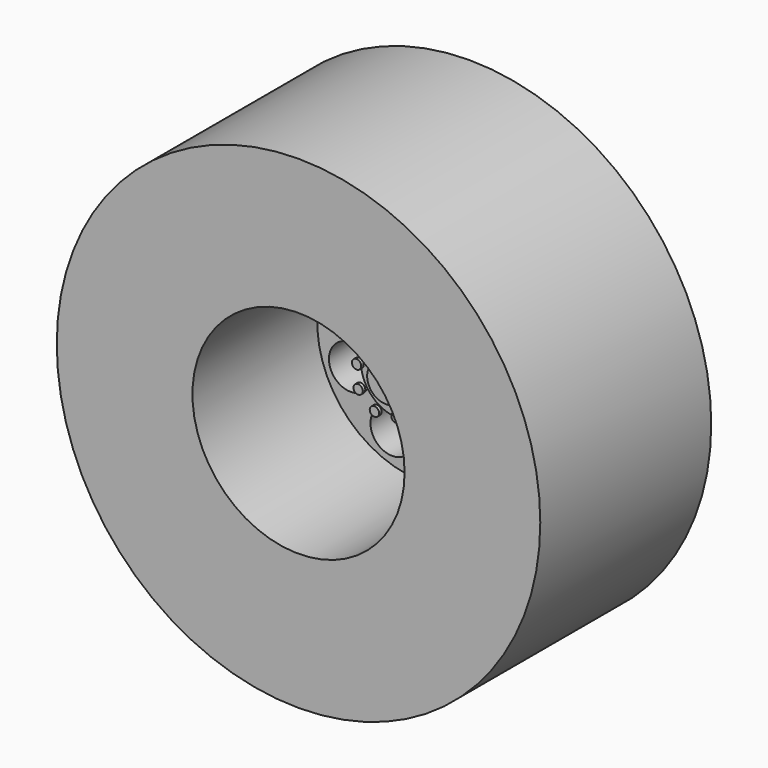
from build123d import *

# Parameters (mm, degrees)
F0_R      = 19.685
F1_DEPTH  = 17.399
F2_R      = 7.62
F3_DEPTH  = 13.208
F4_DEPTH  = 16.51
F5_R      = 8.636
F6_DEPTH  = 12.7
F7_R      = 3.048
F8_DEPTH  = 2.54
F9_R      = 1.524
F10_DEPTH = 1.27
F12_DEPTH = 0.254
F13_R     = 1.778
F14_DEPTH = 25.4
F15_R     = 18.923
F15_R_2   = 10.033
F16_DEPTH = 15.494
F17_R     = 3
F18_DEPTH = 9.398
F19_R     = 1.905
F20_DEPTH = 8.636


with BuildPart() as f1:
    # F0 (on Front) → F1 (new body)
    with BuildSketch(Plane.XZ):
        Circle(F0_R)
    extrude(amount=-F1_DEPTH)

    # F2 (on Front) → F3 (cut)
    with BuildSketch(Plane.XZ):
        Circle(F2_R)
    extrude(amount=-F3_DEPTH, mode=Mode.SUBTRACT)

    # F0 (on Front) → F4 (join)
    with BuildSketch(Plane.XZ):
        Circle(F0_R)
    extrude(amount=-F4_DEPTH)

    # F5 (on face) → F6 (cut)
    with BuildSketch(Plane.XZ):
        Circle(F5_R)
    extrude(amount=-F6_DEPTH, mode=Mode.SUBTRACT)

    # F7 (on face) → F8 (join)
    with BuildSketch(Plane.XZ.offset(-12.7)):
        Circle(F7_R)
    extrude(amount=F8_DEPTH)

    # F9 (on face) → F10 (join)
    with BuildSketch(Plane.XZ.offset(-10.16)):
        Circle(F9_R)
    extrude(amount=F10_DEPTH)

    # F13 (on face) → F14 (cut)
    with BuildSketch(Plane.XZ.offset(-12.7)):
        with Locations((-2.3355014042, 5.9049075514)):
            Circle(F13_R)
        with Locations((-5.8268490523, 2.5239512915)):
            Circle(F13_R)
        with Locations((-5.9049075514, -2.3355014042)):
            Circle(F13_R)
        with Locations((-2.5239512915, -5.8268490523)):
            Circle(F13_R)
        with Locations((2.3355014042, -5.9049075514)):
            Circle(F13_R)
        with Locations((5.8268490523, -2.5239512915)):
            Circle(F13_R)
        with Locations((5.9049075514, 2.3355014042)):
            Circle(F13_R)
        with Locations((2.5239512915, 5.8268490523)):
            Circle(F13_R)
    extrude(amount=-F14_DEPTH, mode=Mode.SUBTRACT)

    # F15 (on face) → F16 (cut)
    with BuildSketch(Plane(origin=(0, 17.399, 0), x_dir=(-1, 0, 0), z_dir=(0, 1, 0))):
        Circle(F15_R)
        Circle(F15_R_2, mode=Mode.SUBTRACT)
    extrude(amount=-F16_DEPTH, mode=Mode.SUBTRACT)

    # F17 (on face) → F18 (join)
    with BuildSketch(Plane(origin=(0, 17.399, 0), x_dir=(-1, 0, 0), z_dir=(0, 1, 0))):
        Circle(F17_R)
    extrude(amount=F18_DEPTH)

    # F19 (on face) → F20 (cut)
    with BuildSketch(Plane(origin=(0, 26.797, 0), x_dir=(-1, 0, 0), z_dir=(0, 1, 0))):
        Circle(F19_R)
    extrude(amount=-F20_DEPTH, mode=Mode.SUBTRACT)


with BuildPart() as f12:
    # F11 (on face) → F12 (new body)
    with BuildSketch(Plane.XZ.offset(-8.89)):
        with BuildLine():
            ThreePointArc((1.8604168835, 1.3526871845), (2.0581822792, 1.0270342277), (2.1994795826, 0.673203658))
            ThreePointArc((2.1994795826, 0.673203658), (2.3736147384, 0.8133443503), (2.4391822792, 1.0270342277))
            ThreePointArc((2.4391822792, 1.0270342277), (2.2450142682, 1.3590806219), (1.8604168835, 1.3526871845))
        make_face()
        with BuildLine():
            ThreePointArc((1.8604168835, 1.3526871845), (1.7172693474, 0.8569184644), (2.1994795826, 0.673203658))
            ThreePointArc((2.1994795826, 0.673203658), (2.0581822792, 1.0270342277), (1.8604168835, 1.3526871845))
        make_face()
    extrude(amount=F12_DEPTH)


with BuildPart() as f12b:
    # F11 (on face) → F12, piece 2 (new body)
    with BuildSketch(Plane.XZ.offset(-8.89)):
        with BuildLine():
            ThreePointArc((0.3590191132, 2.2720076751), (0.7291317796, 2.1815775135), (1.0792400562, 2.0312937997))
            ThreePointArc((1.0792400562, 2.0312937997), (1.1023289483, 2.1048645856), (1.1101317796, 2.1815775135))
            ThreePointArc((1.1101317796, 2.1815775135), (0.7746733764, 2.5598458878), (0.3590191132, 2.2720076751))
        make_face()
        with BuildLine():
            ThreePointArc((0.3590191132, 2.2720076751), (0.6083599436, 1.8202256578), (1.0792400562, 2.0312937997))
            ThreePointArc((1.0792400562, 2.0312937997), (0.7291317796, 2.1815775135), (0.3590191132, 2.2720076751))
        make_face()
    extrude(amount=F12_DEPTH)


with BuildPart() as f12c:
    # F11 (on face) → F12, piece 3 (new body)
    with BuildSketch(Plane.XZ.offset(-8.89)):
        with BuildLine():
            ThreePointArc((-1.3526871845, 1.8604168835), (-1.0270342277, 2.0581822792), (-0.673203658, 2.1994795826))
            ThreePointArc((-0.673203658, 2.1994795826), (-1.1971499911, 2.399095211), (-1.3526871845, 1.8604168835))
        make_face()
        with BuildLine():
            ThreePointArc((-0.6460342277, 2.0581822792), (-0.6528882355, 2.1301251487), (-0.673203658, 2.1994795826))
            ThreePointArc((-0.673203658, 2.1994795826), (-1.0270342277, 2.0581822792), (-1.3526871845, 1.8604168835))
            ThreePointArc((-1.3526871845, 1.8604168835), (-0.9243521371, 1.6912798559), (-0.6460342277, 2.0581822792))
        make_face()
    extrude(amount=F12_DEPTH)


with BuildPart() as f12d:
    # F11 (on face) → F12, piece 4 (new body)
    with BuildSketch(Plane.XZ.offset(-8.89)):
        with BuildLine():
            ThreePointArc((-2.2720076751, 0.3590191132), (-2.1815775135, 0.7291317796), (-2.0312937997, 1.0792400562))
            ThreePointArc((-2.0312937997, 1.0792400562), (-2.5429293692, 0.8499036156), (-2.2720076751, 0.3590191132))
        make_face()
        with BuildLine():
            ThreePointArc((-1.8005775135, 0.7291317796), (-1.8634430333, 0.9387777968), (-2.0312937997, 1.0792400562))
            ThreePointArc((-2.0312937997, 1.0792400562), (-2.1815775135, 0.7291317796), (-2.2720076751, 0.3590191132))
            ThreePointArc((-2.2720076751, 0.3590191132), (-1.9463041529, 0.4294528751), (-1.8005775135, 0.7291317796))
        make_face()
    extrude(amount=F12_DEPTH)


with BuildPart() as f12e:
    # F11 (on face) → F12, piece 5 (new body)
    with BuildSketch(Plane.XZ.offset(-8.89)):
        with BuildLine():
            ThreePointArc((-2.1994795826, -0.673203658), (-2.399095211, -1.1971499911), (-1.8604168835, -1.3526871845))
            ThreePointArc((-1.8604168835, -1.3526871845), (-2.0581822792, -1.0270342277), (-2.1994795826, -0.673203658))
        make_face()
        with BuildLine():
            ThreePointArc((-2.1994795826, -0.673203658), (-2.0581822792, -1.0270342277), (-1.8604168835, -1.3526871845))
            ThreePointArc((-1.8604168835, -1.3526871845), (-1.726135885, -1.2138662167), (-1.6771822792, -1.0270342277))
            ThreePointArc((-1.6771822792, -1.0270342277), (-1.8444924018, -0.7116017686), (-2.1994795826, -0.673203658))
        make_face()
    extrude(amount=F12_DEPTH)


with BuildPart() as f12f:
    # F11 (on face) → F12, piece 6 (new body)
    with BuildSketch(Plane.XZ.offset(-8.89)):
        with BuildLine():
            ThreePointArc((-1.0792400562, -2.0312937997), (-0.8499036156, -2.5429293692), (-0.3590191132, -2.2720076751))
            ThreePointArc((-0.3590191132, -2.2720076751), (-0.7291317796, -2.1815775135), (-1.0792400562, -2.0312937997))
        make_face()
        with BuildLine():
            ThreePointArc((-1.0792400562, -2.0312937997), (-0.7291317796, -2.1815775135), (-0.3590191132, -2.2720076751))
            ThreePointArc((-0.3590191132, -2.2720076751), (-0.3508634054, -2.2271191103), (-0.3481317796, -2.1815775135))
            ThreePointArc((-0.3481317796, -2.1815775135), (-0.6524188517, -1.8083803448), (-1.0792400562, -2.0312937997))
        make_face()
    extrude(amount=F12_DEPTH)


with BuildPart() as f12g:
    # F11 (on face) → F12, piece 7 (new body)
    with BuildSketch(Plane.XZ.offset(-8.89)):
        with BuildLine():
            ThreePointArc((1.4080342277, -2.0581822792), (1.3939366511, -1.9555001886), (1.3526871845, -1.8604168835))
            ThreePointArc((1.3526871845, -1.8604168835), (1.0270342277, -2.0581822792), (0.673203658, -2.1994795826))
            ThreePointArc((0.673203658, -2.1994795826), (1.0989770972, -2.4323282715), (1.4080342277, -2.0581822792))
        make_face()
        with BuildLine():
            ThreePointArc((0.673203658, -2.1994795826), (1.0270342277, -2.0581822792), (1.3526871845, -1.8604168835))
            ThreePointArc((1.3526871845, -1.8604168835), (0.8569184644, -1.7172693474), (0.673203658, -2.1994795826))
        make_face()
    extrude(amount=F12_DEPTH)


with BuildPart() as f12h:
    # F11 (on face) → F12, piece 8 (new body)
    with BuildSketch(Plane.XZ.offset(-8.89)):
        with BuildLine():
            ThreePointArc((2.5625775135, -0.7291317796), (2.481256418, -0.493858419), (2.2720076751, -0.3590191132))
            ThreePointArc((2.2720076751, -0.3590191132), (2.1815775135, -0.7291317796), (2.0312937997, -1.0792400562))
            ThreePointArc((2.0312937997, -1.0792400562), (2.3912235307, -1.0472662598), (2.5625775135, -0.7291317796))
        make_face()
        with BuildLine():
            ThreePointArc((2.0312937997, -1.0792400562), (2.1815775135, -0.7291317796), (2.2720076751, -0.3590191132))
            ThreePointArc((2.2720076751, -0.3590191132), (1.8202256578, -0.6083599436), (2.0312937997, -1.0792400562))
        make_face()
    extrude(amount=F12_DEPTH)


solid = Compound([f1.part, f12.part, f12b.part, f12c.part, f12d.part, f12e.part, f12f.part, f12g.part, f12h.part])
